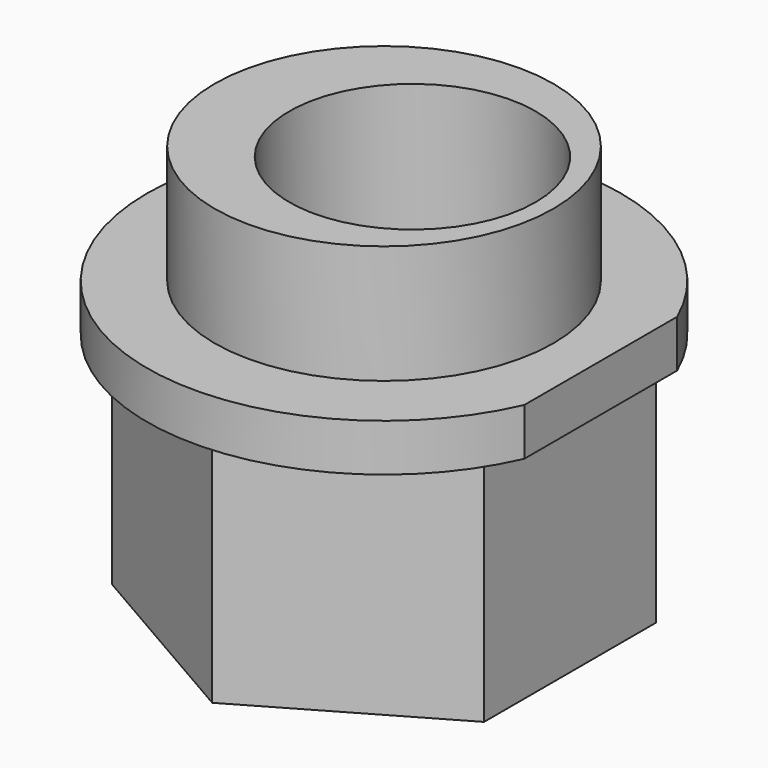
from build123d import *

# Parameters (mm, degrees)
F1_DEPTH  = 5
F2_R      = 3.575
F3_DEPTH  = 3.5
F4_R      = 2.6
F5_DEPTH  = 25
F6_R      = 5
F7_DEPTH  = 1
F8_R      = 2.6
F9_DEPTH  = 25
F10_W     = 1.5
F10_H     = 5
F11_DEPTH = 2


with BuildPart() as f1:
    # F0 (on Top) → F1 (new body)
    with BuildSketch(Plane.XY):
        Polygon((3.925, -2.2661), (3.925, 2.2661), (0, 4.5322), (-3.925, 2.2661), (-3.925, -2.2661), (0, -4.5322), align=None)
    extrude(amount=F1_DEPTH)

    # F2 (on face) → F3 (join)
    with BuildSketch(Plane.XY.offset(5)):
        Circle(F2_R)
    extrude(amount=F3_DEPTH)

    # F4 (on face) → F5 (cut)
    with BuildSketch(Plane.XY.offset(8.5)):
        with Locations((0.6, 0)):
            Circle(F4_R)
    extrude(amount=-F5_DEPTH, mode=Mode.SUBTRACT)

    # F6 (on face) → F7 (join)
    with BuildSketch(Plane.XY.offset(5)):
        Circle(F6_R)
    extrude(amount=F7_DEPTH)

    # F8 (on face) → F9 (cut)
    with BuildSketch(Plane.XY.offset(8.5)):
        with Locations((0.6, 0)):
            Circle(F8_R)
    extrude(amount=-F9_DEPTH, mode=Mode.SUBTRACT)

    # F10 (on face) → F11 (cut)
    with BuildSketch(Plane.XY.offset(6)):
        with Locations((5.325, 0)):
            Rectangle(F10_W, F10_H)
    extrude(amount=-F11_DEPTH, mode=Mode.SUBTRACT)


solid = f1.part
